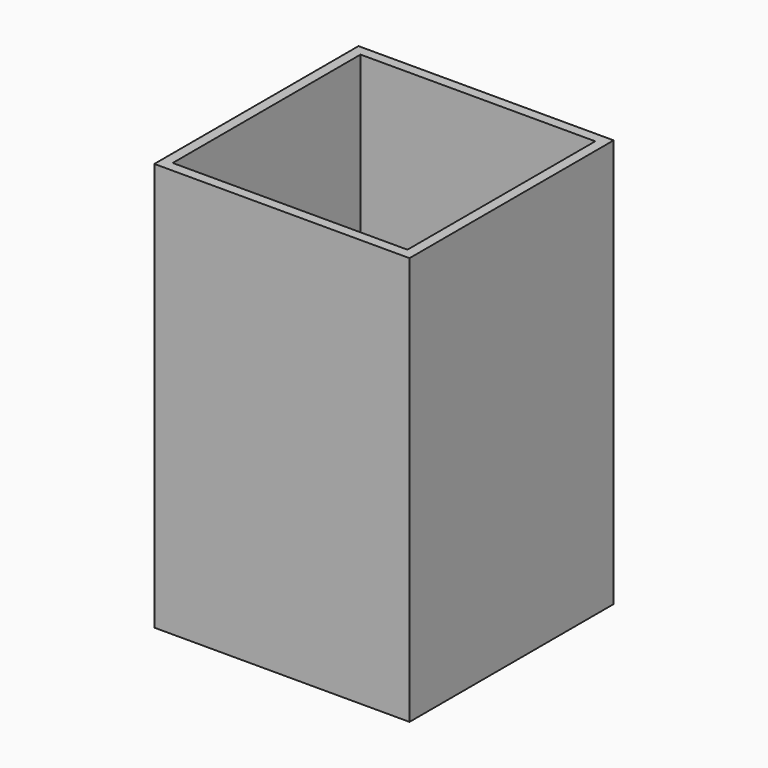
from build123d import *

# Parameters (mm, degrees)
BOX001_W     = 46
BOX001_H     = 46
BOX001_DEPTH = 78
BOX_W        = 50
BOX_H        = 50
BOX_DEPTH    = 80


with BuildPart() as cub001:
    # Box001 → Box001 (new body)
    with BuildSketch(Plane(origin=(2, 2, 2), x_dir=(1, 0, 0), z_dir=(0, 0, 1))):
        with Locations((23, 23)):
            Rectangle(BOX001_W, BOX001_H)
    extrude(amount=BOX001_DEPTH)


with BuildPart() as cut:
    # Box → Box (new body)
    with BuildSketch(Plane.XY):
        with Locations((25, 25)):
            Rectangle(BOX_W, BOX_H)
    extrude(amount=BOX_DEPTH)

    # Cut: cut Cub001
    add(cub001.part, mode=Mode.SUBTRACT)


solid = cut.part
